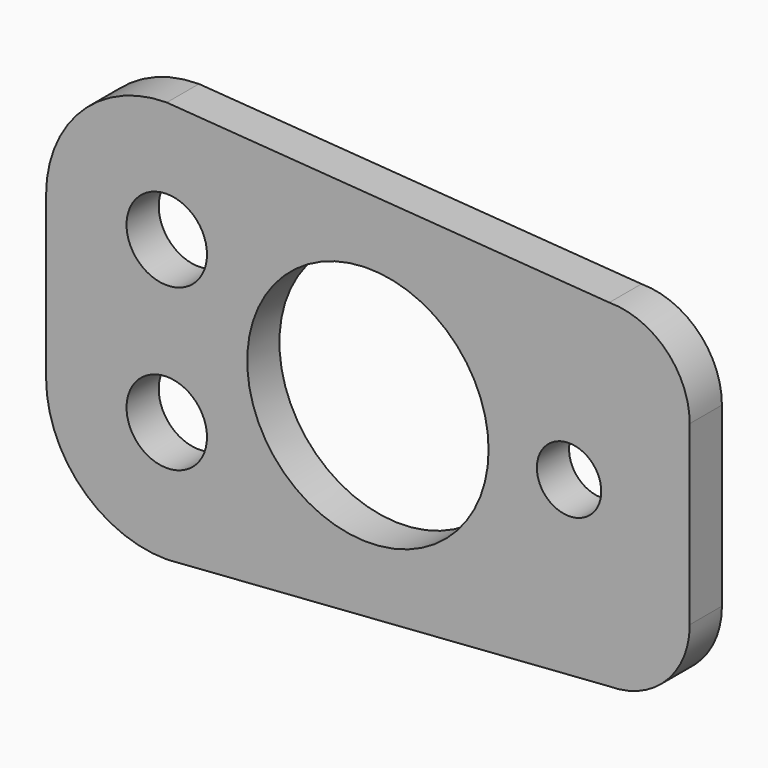
from build123d import *

# Parameters (mm, degrees)
F0_R     = 5
F0_R_2   = 15
F0_R_3   = 4
F1_DEPTH = 5


with BuildPart() as f1:
    # F0 (on Front) → F1 (new body)
    with BuildSketch(Plane.XZ):
        with BuildLine():
            ThreePointArc((-25, 25), (-35.606602, 20.606602), (-40, 10))
            Line((-40, 10), (-40, 0))
            Line((-40, 0), (-40, -10))
            ThreePointArc((-40, -10), (-35.606602, -20.606602), (-25, -25))
            Line((-25, -25), (30, -21))
            ThreePointArc((30, -21), (37.071068, -18.071068), (40, -11))
            Line((40, -11), (40, 0))
            Line((40, 0), (40, 11))
            ThreePointArc((40, 11), (37.071068, 18.071068), (30, 21))
            Line((30, 21), (-25, 25))
        make_face()
        with Locations((-25, -10)):
            Circle(F0_R, mode=Mode.SUBTRACT)
        with Locations((-25, 10)):
            Circle(F0_R, mode=Mode.SUBTRACT)
        Circle(F0_R_2, mode=Mode.SUBTRACT)
        with Locations((25, 0)):
            Circle(F0_R_3, mode=Mode.SUBTRACT)
    extrude(amount=F1_DEPTH)


solid = f1.part
